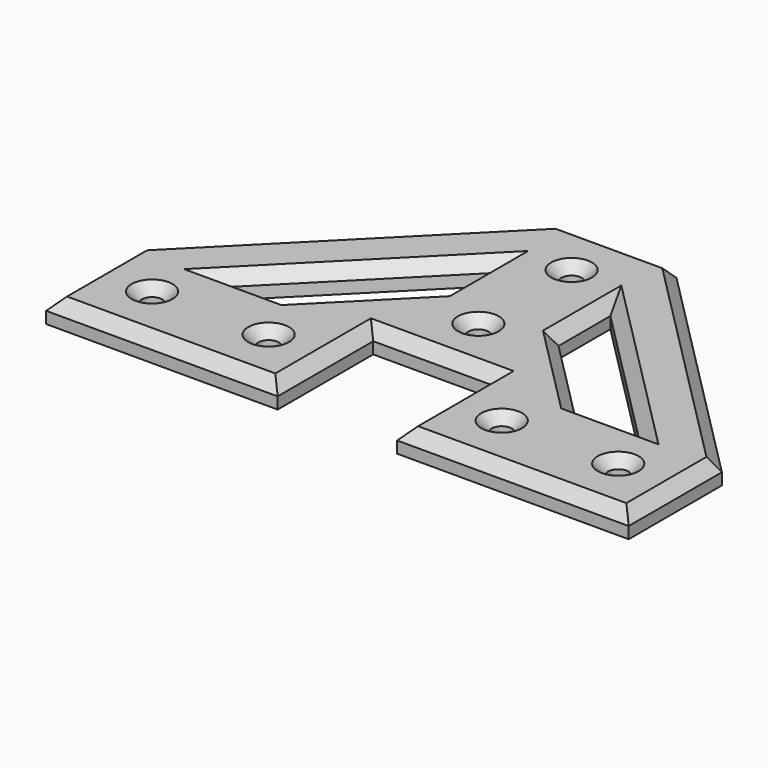
from build123d import *

# Parameters (mm, degrees)
F0_R     = 1.75
F1_DEPTH = 4
F2_SIZE  = 1.75
F3_SIZE  = 2


with BuildPart() as f1:
    # F0 (on Top) → F1 (new body)
    with BuildSketch(Plane.XY):
        Polygon((10.25, 10.25), (10.25, -10.25), (50, -10.25), (50, 9.75), (10, 50), (0, 50), (-10, 50), (-50, 9.75), (-50, -10.25), (-10.25, -10.25), (-10.25, 10.25), (0, 10.25), align=None)
        with Locations((-40, 0)):
            Circle(F0_R, mode=Mode.SUBTRACT)
        with Locations((-20, 0)):
            Circle(F0_R, mode=Mode.SUBTRACT)
        with Locations((20, 0)):
            Circle(F0_R, mode=Mode.SUBTRACT)
        with Locations((40, 0)):
            Circle(F0_R, mode=Mode.SUBTRACT)
        Polygon((-35.901716, 9.75), (-10, 35.813601), (-10, 24.687961), (-24.845179, 9.75), align=None, mode=Mode.SUBTRACT)
        with Locations((0, 20)):
            Circle(F0_R, mode=Mode.SUBTRACT)
        Polygon((10, 24.687961), (10, 35.813601), (35.901716, 9.75), (24.845179, 9.75), align=None, mode=Mode.SUBTRACT)
        with Locations((0, 40)):
            Circle(F0_R, mode=Mode.SUBTRACT)
    extrude(amount=F1_DEPTH)

    # F2
    f2_edges = [f1.edges().sort_by_distance(p)[0] for p in [
        (-21.75, 0, 4),
        (-41.75, 0, 4),
        (-1.75, 20, 4),
        (-1.75, 40, 4),
        (18.25, 0, 4),
        (38.25, 0, 4),
    ]]
    chamfer(f2_edges, length=F2_SIZE)

    # F3
    f3_edges = [f1.edges().sort_by_distance(p)[0] for p in [
        (-30, 29.875, 4),
        (-50, -0.25, 4),
        (-30.125, -10.25, 4),
        (-10.25, 0, 4),
        (0, 10.25, 4),
        (10.25, 0, 4),
        (30.125, -10.25, 4),
        (50, -0.25, 4),
        (30, 29.875, 4),
        (0, 50, 4),
        (22.950858, 22.781801, 4),
        (10, 30.250781, 4),
        (17.422589, 17.218981, 4),
        (30.373447, 9.75, 4),
        (-17.422589, 17.218981, 4),
        (-30.373447, 9.75, 4),
        (-22.950858, 22.781801, 4),
        (-10, 30.250781, 4),
    ]]
    chamfer(f3_edges, length=F3_SIZE)


solid = f1.part
